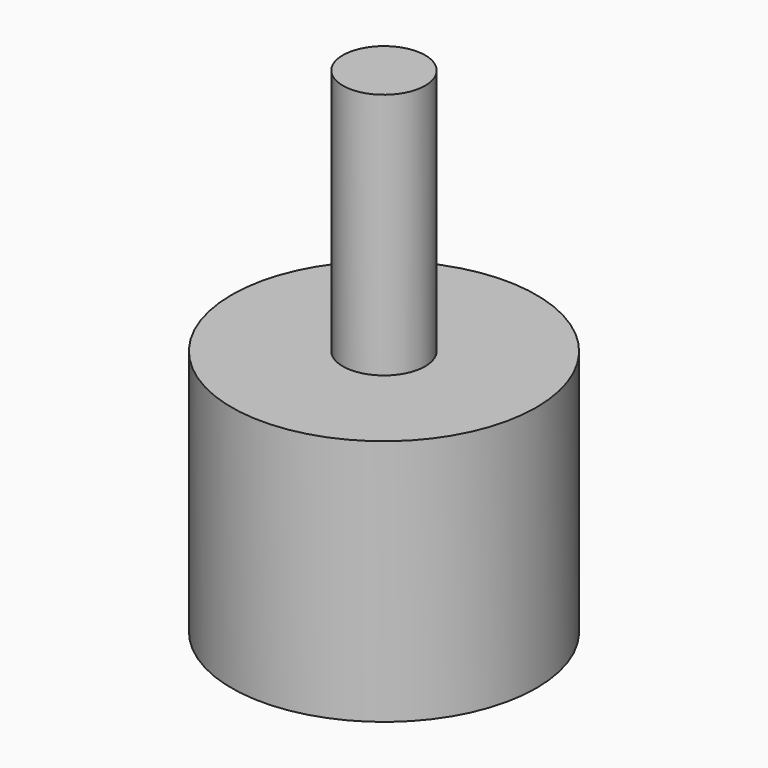
from build123d import *

# Parameters (mm, degrees)
SKETCH001_R  = 2.5
PAD001_DEPTH = 30
SKETCH_R     = 9.25
PAD_DEPTH    = 15


with BuildPart() as pad001:
    # Sketch001 → Pad001 (new body)
    with BuildSketch(Plane.XY):
        Circle(SKETCH001_R)
    extrude(amount=PAD001_DEPTH)


with BuildPart() as fusion:
    # Sketch → Pad (new body)
    with BuildSketch(Plane.XY):
        Circle(SKETCH_R)
    extrude(amount=PAD_DEPTH)

    # Fusion: union Pad001
    add(pad001.part)


solid = fusion.part
